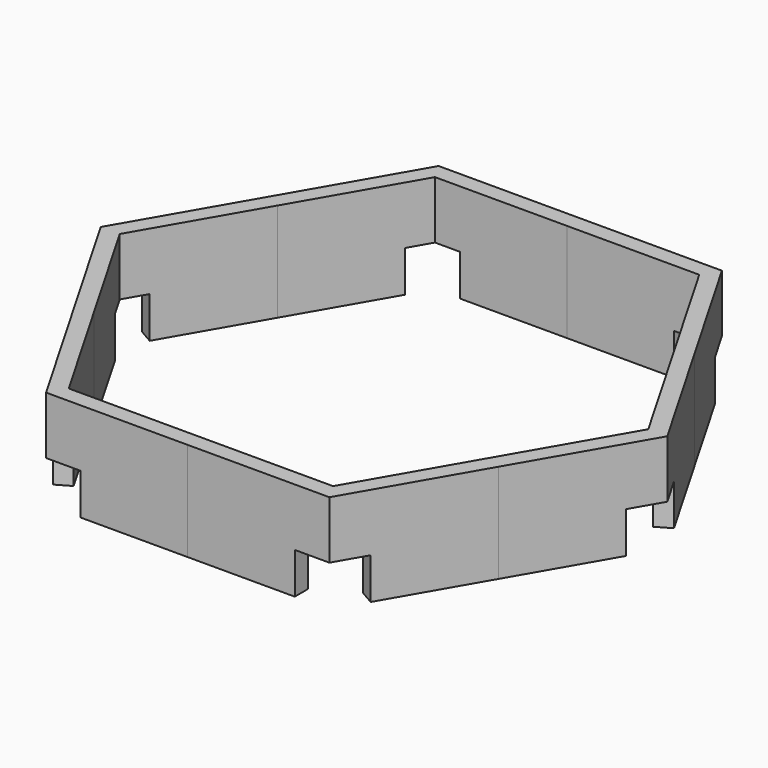
from build123d import *

# Parameters (mm, degrees)
PAD_DEPTH          = 6
POCKET_DEPTH       = 2.5
POLARPATTERN_COUNT = 6


with BuildPart() as part:
    # Sketch → Pad (new body)
    with BuildSketch(Plane.XY):
        Polygon((0, 14.9), (8.602519, 14.9), (12.903779, 7.45), (12.037753, 6.95), (8.025169, 13.9), (0, 13.9), align=None)
    pad = extrude(amount=PAD_DEPTH)

    # Sketch001 → Pocket (cut)
    with BuildSketch(Plane.XY):
        Polygon((6.5, 11.25833), (11.775323, 14.304039), (6.5, 17.349749), align=None)
    pocket = extrude(amount=POCKET_DEPTH, mode=Mode.SUBTRACT)

    # PolarPattern: Pad, Pocket ×6 about axis
    polarpattern_axis = Axis((0, 0, 0), (0, 0, 1))
    for i in range(1, POLARPATTERN_COUNT):
        add(pad.rotate(polarpattern_axis, i * 360 / POLARPATTERN_COUNT))
        add(pocket.rotate(polarpattern_axis, i * 360 / POLARPATTERN_COUNT), mode=Mode.SUBTRACT)


solid = part.part
